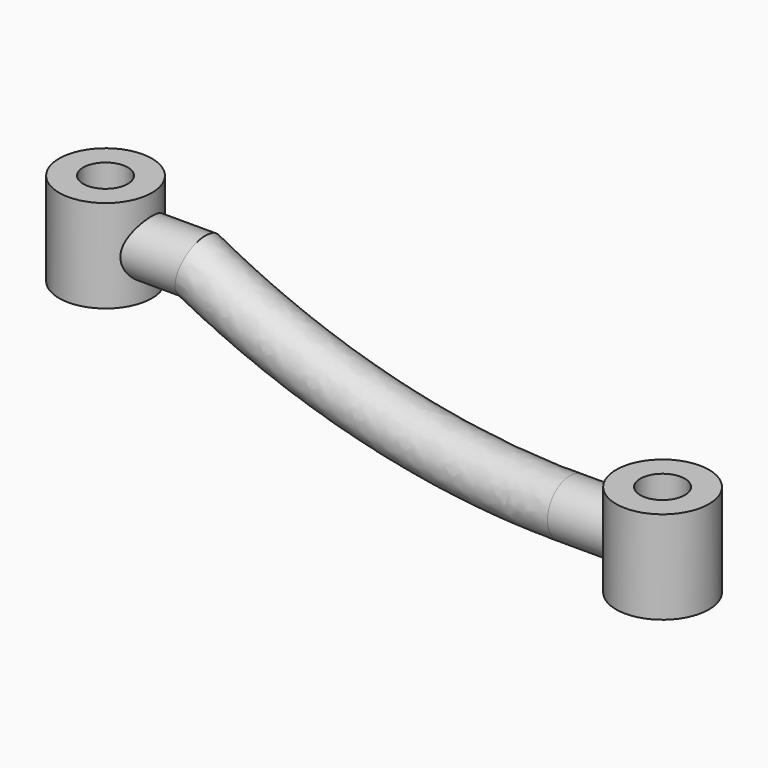
from build123d import *

# Parameters (mm, degrees)
F0_R     = 12.5
F0_R_2   = 6
F1_DEPTH = 25
F2_DEPTH = 25
F4_R     = 7.5


with BuildPart() as f1:
    # F0 (on Top) → F1 (new body)
    with BuildSketch(Plane.XY):
        Circle(F0_R)
        Circle(F0_R_2, mode=Mode.SUBTRACT)
    extrude(amount=F1_DEPTH)



with BuildPart() as f2:
    # F0 (on Top) → F2 (new body)
    with BuildSketch(Plane.XY):
        with Locations((150, 0)):
            Circle(F0_R)
        with Locations((150, 0)):
            Circle(F0_R_2, mode=Mode.SUBTRACT)
    extrude(amount=-F2_DEPTH)


with BuildPart() as f1_1:
    add(f1.part)

    add(f2.part)  # F5 merges F2
    # F5: sweep along a path in F3
    with BuildLine(Plane.XZ) as f5_path:
        Line((0, 12), (25, 12))
        ThreePointArc((25, 12), (73.4611796798, -6.6552812809), (125, -13))
        Line((125, -13), (150, -13))
    # F4 (on Right) → F5 (sweep)
    with BuildSketch(Plane.YZ):
        with Locations((0, 12)):
            Circle(F4_R)
    sweep(path=f5_path.line, transition=Transition.RIGHT)


solid = f1_1.part
